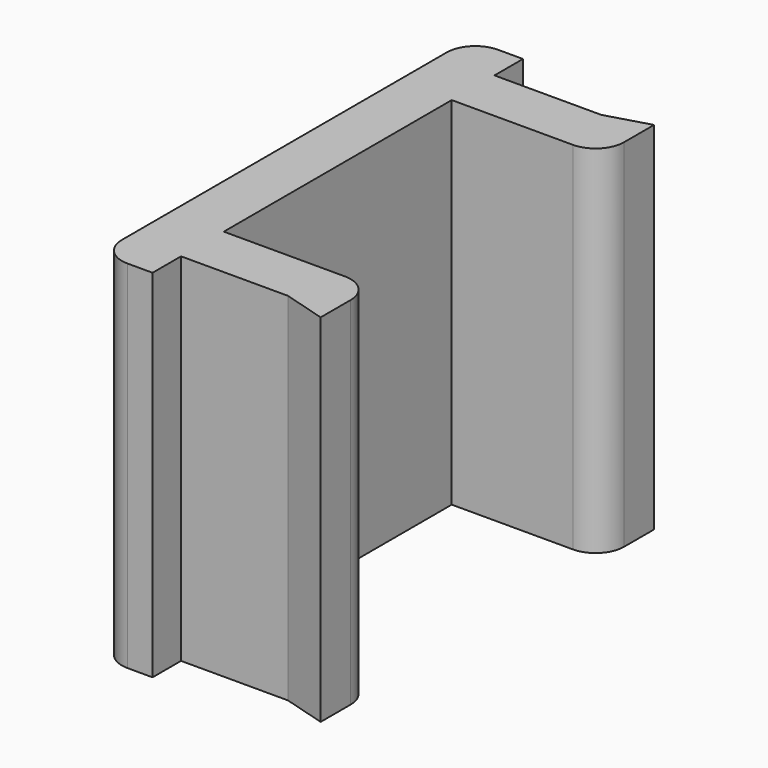
from build123d import *

# Parameters (mm, degrees)
PAD_DEPTH   = 10
FILLET_R    = 0.8
FILLET001_R = 0.8


with BuildPart() as part:
    # Sketch → Pad (new body)
    with BuildSketch(Plane.XY):
        Polygon((5.7, -5.85), (5.7, -4), (1.5, -4), (1.5, 4), (5.7, 4), (5.7, 5.85), (4.5, 5.5), (1.5, 5.5), (1.5, 6.5), (0, 6.5), (0, -6.5), (1.5, -6.5), (1.5, -5.5), (4.5, -5.5), align=None)
    extrude(amount=PAD_DEPTH)

    # Fillet
    fillet_edges = [part.edges().sort_by_distance(p)[0] for p in [
        (0, 6.5, 5),
        (0, -6.5, 5),
    ]]
    fillet(fillet_edges, radius=FILLET_R)

    # Fillet001
    fillet001_edges = [part.edges().sort_by_distance(p)[0] for p in [
        (5.7, 4, 5),
        (5.7, -4, 5),
    ]]
    fillet(fillet001_edges, radius=FILLET001_R)


solid = part.part
